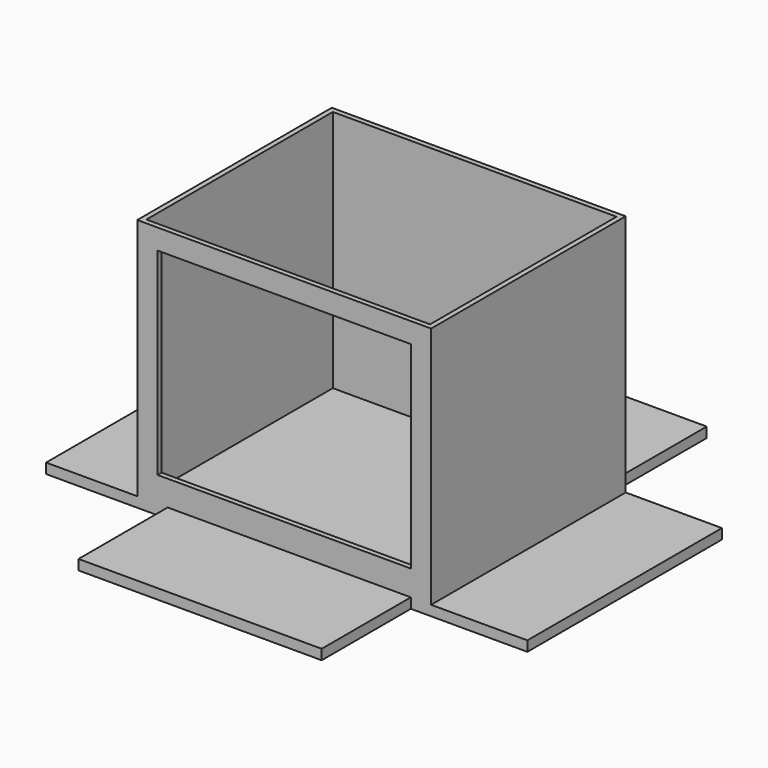
from build123d import *

# Parameters (mm, degrees)
BOX003_W               = 95
BOX003_H               = 48
BOX003_DEPTH           = 2
BOX004_W               = 95
BOX004_H               = 48
BOX004_DEPTH           = 2
BOX004_PLACEMENT_ANGLE = 90
BOX002_W               = 50
BOX002_H               = 13
BOX002_DEPTH           = 39
BOX001_W               = 56
BOX001_H               = 46
BOX001_DEPTH           = 59
BOX_W                  = 58
BOX_H                  = 48
BOX_DEPTH              = 50


with BuildPart() as cube003:
    # Box003 → Box003 (new body)
    with BuildSketch(Plane(origin=(-18, 0, 0), x_dir=(1, 0, 0), z_dir=(0, 0, 1))):
        with Locations((47.5, 24)):
            Rectangle(BOX003_W, BOX003_H)
    extrude(amount=BOX003_DEPTH)


with BuildPart() as cube004:
    # Box004 → Box004 (new body)
    with BuildSketch(Plane.XY):
        with Locations((47.5, 24)):
            Rectangle(BOX004_W, BOX004_H)
    extrude(amount=BOX004_DEPTH)


with BuildPart() as cube004_1:
    # Box004 placement: moved
    add(cube004.part.moved(Location((54, -22, 0))).rotate(Axis((54, -22, 0), (0, 0, 1)), BOX004_PLACEMENT_ANGLE))


with BuildPart() as cube002:
    # Box002 → Box002 (new body)
    with BuildSketch(Plane(origin=(4, -2, 7), x_dir=(1, 0, 0), z_dir=(0, 0, 1))):
        with Locations((25, 6.5)):
            Rectangle(BOX002_W, BOX002_H)
    extrude(amount=BOX002_DEPTH)


with BuildPart() as cube001:
    # Box001 → Box001 (new body)
    with BuildSketch(Plane(origin=(1, 1, 2), x_dir=(1, 0, 0), z_dir=(0, 0, 1))):
        with Locations((28, 23)):
            Rectangle(BOX001_W, BOX001_H)
    extrude(amount=BOX001_DEPTH)


with BuildPart() as fusion:
    # Box → Box (new body)
    with BuildSketch(Plane.XY):
        with Locations((29, 24)):
            Rectangle(BOX_W, BOX_H)
    extrude(amount=BOX_DEPTH)

    # Cut: cut Cube001
    add(cube001.part, mode=Mode.SUBTRACT)

    # Cut001: cut Cube002
    add(cube002.part, mode=Mode.SUBTRACT)

    # Fusion: union Cube003, Cube004
    add(cube003.part)
    add(cube004_1.part)


solid = fusion.part
